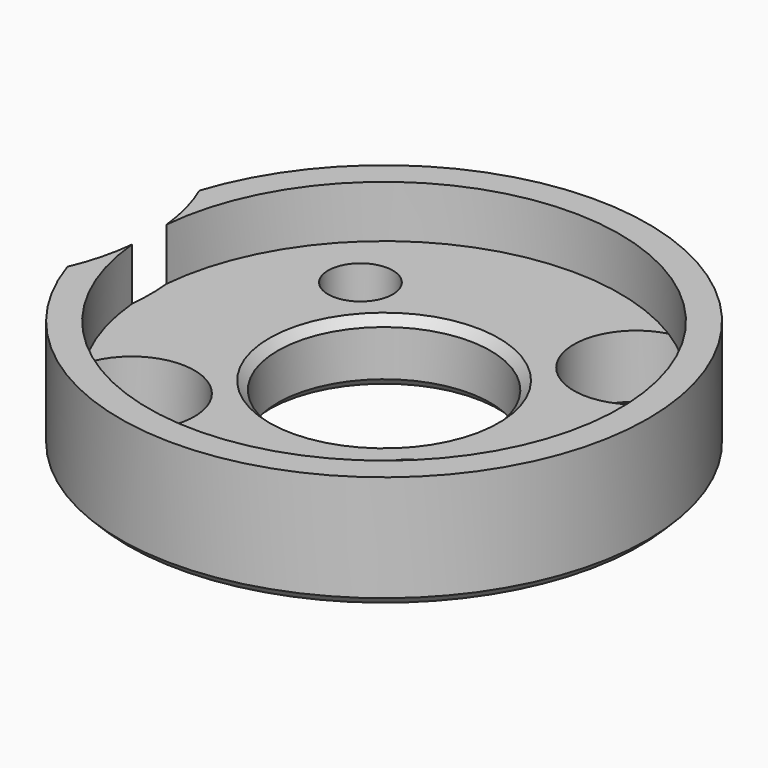
from build123d import *

# Parameters (mm, degrees)
CYLINDER043_R                      = 10
CYLINDER043_DEPTH                  = 10
CYLINDER042_R                      = 3
CYLINDER042_DEPTH                  = 3
CYLINDER041_R                      = 3
CYLINDER041_DEPTH                  = 3
CYLINDER027_R                      = 1.55
CYLINDER027_DEPTH                  = 5
CYLINDER028_R                      = 1.55
CYLINDER028_DEPTH                  = 5
CYLINDER026_R                      = 5.1
CYLINDER026_DEPTH                  = 10
CYLINDER025_R                      = 11.3
CYLINDER025_DEPTH                  = 5.5
CYLINDER024_R                      = 12.65
CYLINDER024_DEPTH                  = 5.5
CHAMFER010005_SIZE                 = 0.4
CUT017021010004015_PLACEMENT_ANGLE = 45


with BuildPart() as cylinder043:
    # Cylinder043 → Cylinder043 (new body)
    with BuildSketch(Plane(origin=(-21.2, 0, 0), x_dir=(1, 0, 0), z_dir=(0, 0, 1))):
        Circle(CYLINDER043_R)
    extrude(amount=CYLINDER043_DEPTH)


with BuildPart() as cylinder042:
    # Cylinder042 → Cylinder042 (new body)
    with BuildSketch(Plane(origin=(-9.5, 0, 0), x_dir=(1, 0, 0), z_dir=(0, 0, 1))):
        Circle(CYLINDER042_R)
    extrude(amount=CYLINDER042_DEPTH)


with BuildPart() as fusion021005:
    # Cylinder041 → Cylinder041 (new body)
    with BuildSketch(Plane(origin=(9.5, 0, 0), x_dir=(1, 0, 0), z_dir=(0, 0, 1))):
        Circle(CYLINDER041_R)
    extrude(amount=CYLINDER041_DEPTH)

    # Fusion021005: union Cylinder042
    add(cylinder042.part)


with BuildPart() as cylinder027:
    # Cylinder027 → Cylinder027 (new body)
    with BuildSketch(Plane(origin=(0, -8, 0), x_dir=(1, 0, 0), z_dir=(0, 0, 1))):
        Circle(CYLINDER027_R)
    extrude(amount=CYLINDER027_DEPTH)


with BuildPart() as fusion017:
    # Cylinder028 → Cylinder028 (new body)
    with BuildSketch(Plane(origin=(0, 8, 0), x_dir=(1, 0, 0), z_dir=(0, 0, 1))):
        Circle(CYLINDER028_R)
    extrude(amount=CYLINDER028_DEPTH)

    # Fusion017: union Cylinder027
    add(cylinder027.part)


with BuildPart() as cylinder026:
    # Cylinder026 → Cylinder026 (new body)
    with BuildSketch(Plane.XY):
        Circle(CYLINDER026_R)
    extrude(amount=CYLINDER026_DEPTH)


with BuildPart() as cylinder025:
    # Cylinder025 → Cylinder025 (new body)
    with BuildSketch(Plane.XY.offset(3)):
        Circle(CYLINDER025_R)
    extrude(amount=CYLINDER025_DEPTH)


with BuildPart() as adapter_standard:
    # Cylinder024 → Cylinder024 (new body)
    with BuildSketch(Plane.XY):
        Circle(CYLINDER024_R)
    extrude(amount=CYLINDER024_DEPTH)

    # Cut017021010004012: cut Cylinder025
    add(cylinder025.part, mode=Mode.SUBTRACT)

    # Cut017021010004013: cut Cylinder026
    add(cylinder026.part, mode=Mode.SUBTRACT)

    # Cut017021010004014: cut Fusion017
    add(fusion017.part, mode=Mode.SUBTRACT)

    # Chamfer010005
    chamfer010005_edges = [adapter_standard.edges().sort_by_distance(p)[0] for p in [
        (-12.65, 0, 0),
        (-1.55, -8, 0),
        (-5.1, 0, 0),
        (-1.55, 8, 0),
        (-5.1, 0, 3),
    ]]
    chamfer(chamfer010005_edges, length=CHAMFER010005_SIZE)

    # Cut017021010004015: cut Fusion021005
    add(fusion021005.part, mode=Mode.SUBTRACT)


with BuildPart() as adapter_standard_1:
    # Cut017021010004015 placement: moved
    add(adapter_standard.part.rotate(Axis((0, 0, 0), (0, 0, 1)), CUT017021010004015_PLACEMENT_ANGLE))

    # Cut017021010004016: cut Cylinder043
    add(cylinder043.part, mode=Mode.SUBTRACT)


solid = adapter_standard_1.part
